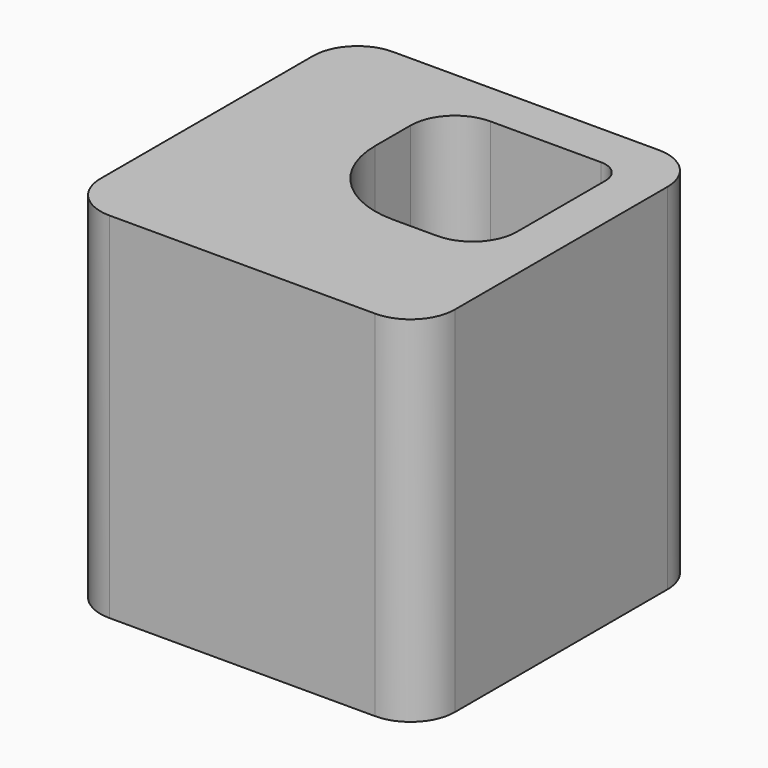
from build123d import *

# Parameters (mm, degrees)
F1_DEPTH = 406.4
F3_DEPTH = 203.2


with BuildPart() as f1:
    # F0 (on Top) → F1 (new body)
    with BuildSketch(Plane.XY):
        with BuildLine():
            ThreePointArc((11.781378, 50.8), (26.660353, 14.878976), (62.581378, 0))
            Line((62.581378, 0), (367.381378, 0))
            ThreePointArc((367.381378, 0), (403.302402, 14.878976), (418.181378, 50.8))
            Line((418.181378, 50.8), (418.181378, 355.6))
            ThreePointArc((418.181378, 355.6), (403.302402, 391.521024), (367.381378, 406.4))
            Line((367.381378, 406.4), (62.581378, 406.4))
            ThreePointArc((62.581378, 406.4), (26.660353, 391.521024), (11.781378, 355.6))
            Line((11.781378, 355.6), (11.781378, 50.8))
        make_face()
    extrude(amount=F1_DEPTH)

    # F2 (on face) → F3 (cut)
    with BuildSketch(Plane.XY.offset(406.4)):
        with BuildLine():
            ThreePointArc((367.381378, 330.2), (359.94189, 348.160512), (341.981378, 355.6))
            Line((341.981378, 355.6), (214.981378, 355.6))
            ThreePointArc((214.981378, 355.6), (179.060353, 340.721024), (164.181378, 304.8))
            Line((164.181378, 304.8), (164.181378, 254))
            ThreePointArc((164.181378, 254), (193.939329, 182.157951), (265.781378, 152.4))
            Line((265.781378, 152.4), (316.581378, 152.4))
            ThreePointArc((316.581378, 152.4), (352.502402, 167.278976), (367.381378, 203.2))
            Line((367.381378, 203.2), (367.381378, 330.2))
        make_face()
    extrude(amount=-F3_DEPTH, mode=Mode.SUBTRACT)


solid = f1.part
